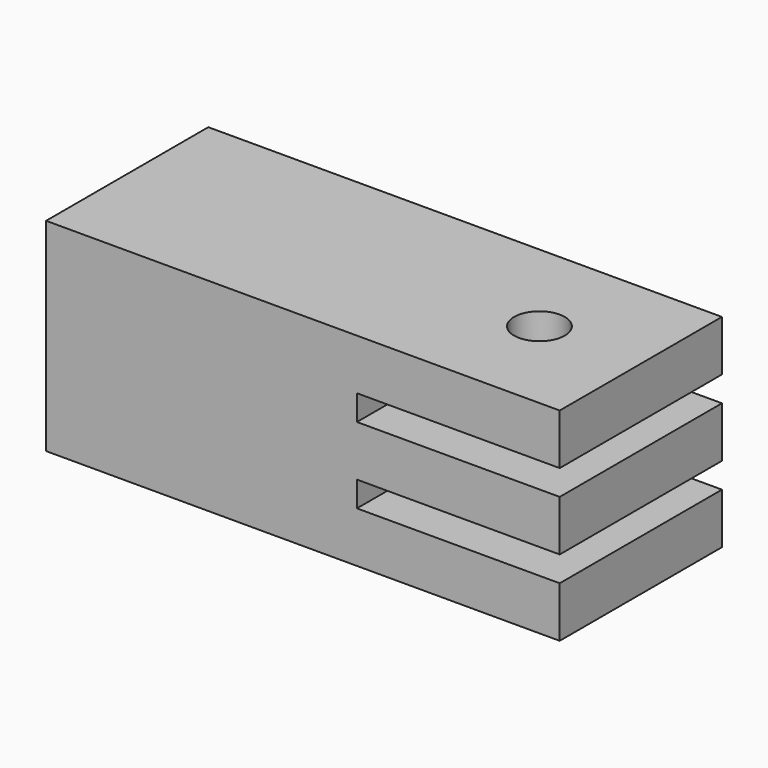
from build123d import *

# Parameters (mm, degrees)
F1_DEPTH = 25.4
F2_R     = 3.175
F3_DEPTH = 38.102478


with BuildPart() as f1:
    # F0 (on Front) → F1 (new body)
    with BuildSketch(Plane.XZ):
        Polygon((16.285167, 9.783552), (-48.057849, 9.783552), (-48.057849, -15.616448), (16.285167, -15.616448), (16.285167, -9.266448), (-9.114833, -9.266448), (-9.114833, -6.091448), (16.285167, -6.091448), (16.285167, 0.258552), (-9.114833, 0.258552), (-9.114833, 3.433552), (16.285167, 3.433552), align=None)
    extrude(amount=F1_DEPTH)

    # F2 (on face) → F3 (cut)
    with BuildSketch(Plane.XY.offset(9.783552)):
        with Locations((3.585167, -12.7)):
            Circle(F2_R)
    extrude(amount=-F3_DEPTH, mode=Mode.SUBTRACT)


solid = f1.part
